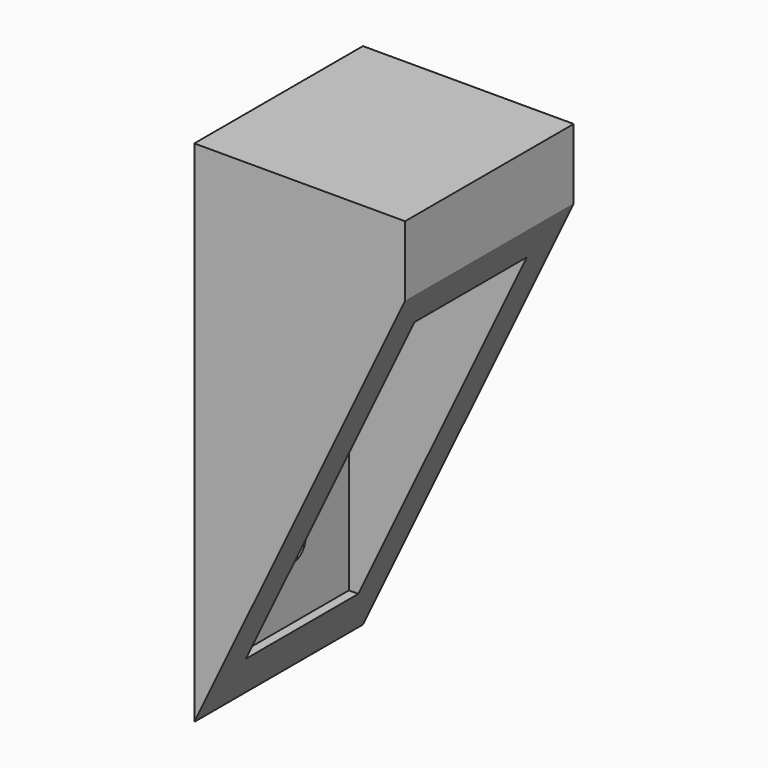
from build123d import *

# Parameters (mm, degrees)
F0_W          = 30
F0_H          = 10
F1_DEPTH      = 30
F2_R          = 2.3
F3_DEPTH      = 30.001
F4_W          = 20
F4_H          = 50
F5_DEPTH      = 13
F5_DEPTH_BACK = 15.001


with BuildPart() as f1:
    # F0 (on Front) → F1 (new body)
    with BuildSketch(Plane.XZ):
        with Locations((0, 18.2561938465)):
            Rectangle(F0_W, F0_H)
        Polygon((15, 13.2561938465), (-15, 13.2561938465), (-15, -49.2438061535), align=None)
    extrude(amount=F1_DEPTH)

    # F2 (on face) → F3 (cut, through all)
    with BuildSketch(Plane(origin=(-15, 0, 0), x_dir=(0, -1, 0), z_dir=(-1, 0, 0))):
        with Locations((15, 0)):
            Circle(F2_R)
        with Locations((15, -32.5)):
            Circle(F2_R)
    extrude(amount=-F3_DEPTH, mode=Mode.SUBTRACT)

    # F4 (on Right) → F5 (cut, two sides)
    with BuildSketch(Plane.YZ) as f5_sk:
        with Locations((-15.0000003725, -17.2735065222)):
            Rectangle(F4_W, F4_H)
    extrude(amount=-F5_DEPTH, mode=Mode.SUBTRACT)
    extrude(f5_sk.sketch, amount=F5_DEPTH_BACK, mode=Mode.SUBTRACT)


solid = f1.part
